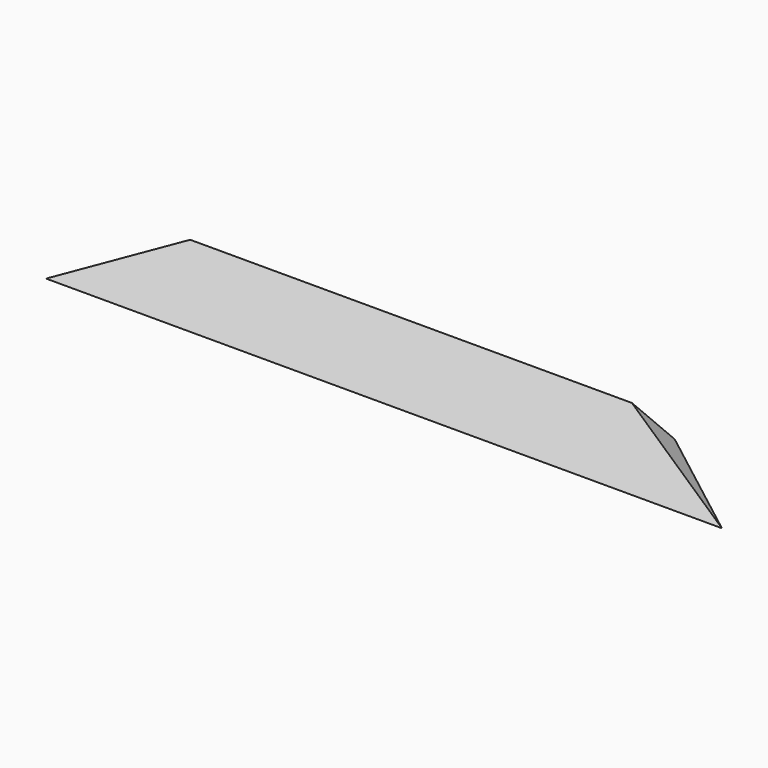
from build123d import *

# Parameters (mm, degrees)
F1_DEPTH = 40
F3_DEPTH = 25
F5_DEPTH = 25


with BuildPart() as f1:
    # F0 (on Right) → F1 (new body)
    with BuildSketch(Plane.YZ):
        Polygon((2.5, 4.3301270189), (0, 0), (5, 0), align=None)
    extrude(amount=F1_DEPTH)

    # F2 (on Top) → F3 (cut)
    with BuildSketch(Plane.XY):
        Polygon((0, 9.8450229721), (0, 0), (17.0520799894, 9.8450229721), align=None)
    extrude(amount=F3_DEPTH, mode=Mode.SUBTRACT)

    # F4 (on face) → F5 (cut)
    with BuildSketch(Plane(origin=(0, 0, 0), x_dir=(1, 0, 0), z_dir=(0, -0.8660254038, 0.5))):
        Polygon((0, 9.1414814892), (0, 0), (15.8335103958, 9.1414814892), align=None)
    extrude(amount=-F5_DEPTH, mode=Mode.SUBTRACT)

    # F7: F1 across plane


with BuildPart() as f1_1:
    add(f1.part)
    add(f1.part.mirror(Plane.YZ.offset(25)))


solid = f1_1.part
